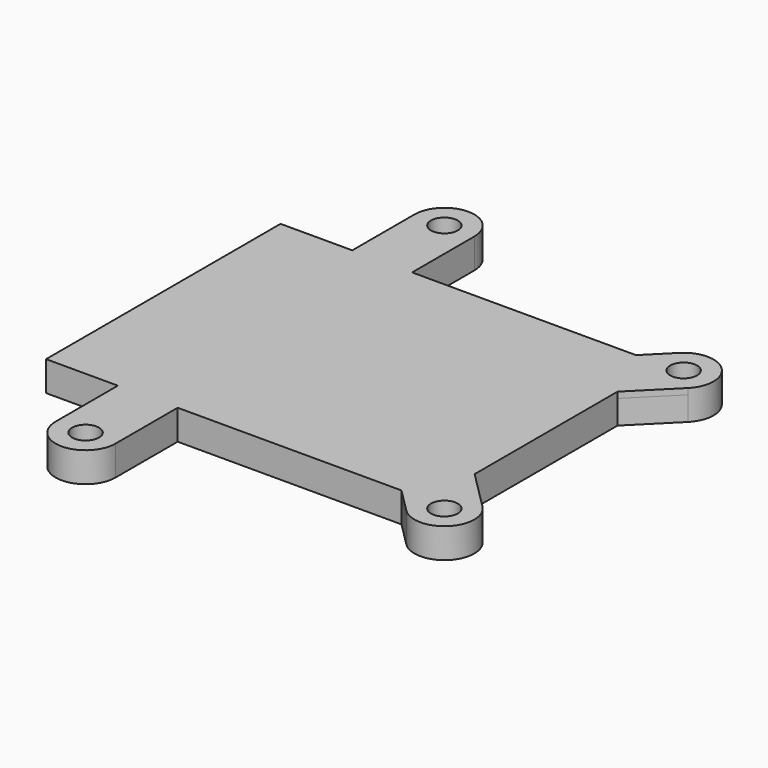
from build123d import *

# Parameters (mm, degrees)
SKETCH123_W             = 60
SKETCH123_H             = 45
PAD050_DEPTH            = 5
PAD099_DEPTH            = 1
SKETCH128_R             = 3
SKETCH128_R_2           = 1.5
PAD100_DEPTH            = 5
SKETCH223_R             = 2.25
POCKET090_DEPTH         = 5
BODY015_PLACEMENT_ANGLE = 180


with BuildPart() as part:
    # Sketch123 → Pad050 (new body)
    with BuildSketch(Plane.XY):
        with BuildLine():
            Line((-32, 24.5), (-20, 24.5))
            Line((-20, 24.5), (-20, 37.5))
            ThreePointArc((-10, 37.5), (-15, 42.5), (-20, 37.5))
            Line((-10, 24.5), (-10, 37.5))
            Line((-10, 24.5), (27.428932, 24.5))
            Line((27.428932, 24.5), (31.464466, 28.535534))
            ThreePointArc((38.535534, 21.464466), (38.535534, 28.535534), (31.464466, 28.535534))
            Line((32, 14.928932), (38.535534, 21.464466))
            Line((32, 14.928932), (32, -14.928932))
            Line((32, -14.928932), (38.535534, -21.464466))
            ThreePointArc((31.464466, -28.535534), (38.535534, -28.535534), (38.535534, -21.464466))
            Line((27.428932, -24.5), (31.464466, -28.535534))
            Line((27.428932, -24.5), (-10, -24.5))
            Line((-10, -24.5), (-10, -37.5))
            ThreePointArc((-20, -37.5), (-15, -42.5), (-10, -37.5))
            Line((-20, -24.5), (-20, -37.5))
            Line((-20, -24.5), (-32, -24.5))
            Line((-32, -24.5), (-32, 24.5))
        make_face()
        Rectangle(SKETCH123_W, SKETCH123_H, mode=Mode.SUBTRACT)
    extrude(amount=PAD050_DEPTH)

    # Sketch222 → Pad099 (join)
    with BuildSketch(Plane.XY):
        with BuildLine():
            Line((-31, 23.5), (-20, 23.5))
            Line((-20, 23.5), (-20, 37.5))
            ThreePointArc((-10, 37.5), (-15, 42.5), (-20, 37.5))
            Line((-10, 23.5), (-10, 37.5))
            Line((-10, 23.5), (26.426435, 23.5))
            Line((26.426435, 23.5), (31.465342, 28.53641))
            ThreePointArc((38.534658, 21.46359), (38.53641, 28.534658), (31.465342, 28.53641))
            Line((31, 13.932666), (38.534658, 21.46359))
            Line((31, 13.932666), (31, -13.927334))
            Line((31, -13.927334), (38.535909, -21.464841))
            ThreePointArc((31.464091, -28.535159), (38.535159, -28.535909), (38.535909, -21.464841))
            Line((26.43, -23.5), (31.464091, -28.535159))
            Line((26.43, -23.5), (-10, -23.5))
            Line((-10, -23.5), (-10, -37.5))
            ThreePointArc((-20, -37.5), (-15, -42.5), (-10, -37.5))
            Line((-20, -23.5), (-20, -37.5))
            Line((-20, -23.5), (-31, -23.5))
            Line((-31, -23.5), (-31, 23.5))
        make_face()
    extrude(amount=PAD099_DEPTH)

    # Sketch128 → Pad100 (join)
    with BuildSketch(Plane.XY):
        with Locations((-27, -5)):
            Circle(SKETCH128_R)
        with Locations((-27, -5)):
            Circle(SKETCH128_R_2, mode=Mode.SUBTRACT)
        with Locations((-27, -19)):
            Circle(SKETCH128_R)
        with Locations((-27, -19)):
            Circle(SKETCH128_R_2, mode=Mode.SUBTRACT)
        with Locations((17, 9)):
            Circle(SKETCH128_R)
        with Locations((17, 9)):
            Circle(SKETCH128_R_2, mode=Mode.SUBTRACT)
        with Locations((17, -19)):
            Circle(SKETCH128_R)
        with Locations((17, -19)):
            Circle(SKETCH128_R_2, mode=Mode.SUBTRACT)
    extrude(amount=PAD100_DEPTH)

    # Sketch223 → Pocket090 (cut)
    with BuildSketch(Plane.XY):
        with Locations((35, -25)):
            Circle(SKETCH223_R)
        with Locations((35, 25)):
            Circle(SKETCH223_R)
        with Locations((-15, 37.5)):
            Circle(SKETCH223_R)
        with Locations((-15, -37.5)):
            Circle(SKETCH223_R)
    extrude(amount=POCKET090_DEPTH, mode=Mode.SUBTRACT)


with BuildPart() as part_1:
    # Body015 placement: moved
    add(part.part.moved(Location((-216, 0, 33))).rotate(Axis((-216, 0, 33), (1, 0, 0)), BODY015_PLACEMENT_ANGLE))


solid = part_1.part
